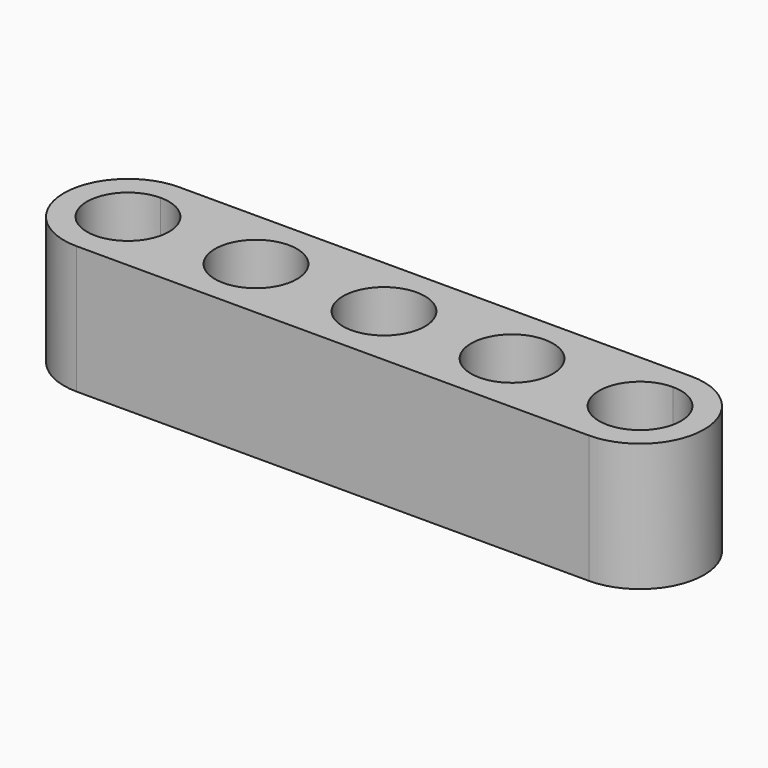
from build123d import *

# Parameters (mm, degrees)
F0_R     = 2.54
F1_DEPTH = 7.9375


with BuildPart() as f1:
    # F0 (on Top) → F1 (new body)
    with BuildSketch(Plane.XY):
        with BuildLine():
            Line((31.75, 0), (0, 0))
            Line((0, 0), (0, -1.42875))
            ThreePointArc((0, -1.42875), (1.796051, -2.172699), (2.54, -3.96875))
            ThreePointArc((2.54, -3.96875), (1.796051, -5.764801), (0, -6.50875))
            Line((0, -6.50875), (0, -7.9375))
            Line((0, -7.9375), (31.75, -7.9375))
            Line((31.75, -7.9375), (31.75, -6.50875))
            ThreePointArc((31.75, -6.50875), (29.21, -3.96875), (31.75, -1.42875))
            Line((31.75, -1.42875), (31.75, 0))
        make_face()
        with Locations((7.9375, -3.96875)):
            Circle(F0_R, mode=Mode.SUBTRACT)
        with Locations((15.875, -3.96875)):
            Circle(F0_R, mode=Mode.SUBTRACT)
        with Locations((23.8125, -3.96875)):
            Circle(F0_R, mode=Mode.SUBTRACT)
        with BuildLine():
            Line((0, -1.42875), (0, 0))
            ThreePointArc((0, 0), (-3.96875, -3.96875), (0, -7.9375))
            Line((0, -7.9375), (0, -6.50875))
            ThreePointArc((0, -6.50875), (-2.54, -3.96875), (0, -1.42875))
        make_face()
        with BuildLine():
            ThreePointArc((31.75, -7.9375), (35.71875, -3.96875), (31.75, 0))
            Line((31.75, 0), (31.75, -1.42875))
            ThreePointArc((31.75, -1.42875), (33.546051, -2.172699), (34.29, -3.96875))
            ThreePointArc((34.29, -3.96875), (33.546051, -5.764801), (31.75, -6.50875))
            Line((31.75, -6.50875), (31.75, -7.9375))
        make_face()
    extrude(amount=F1_DEPTH)


solid = f1.part
